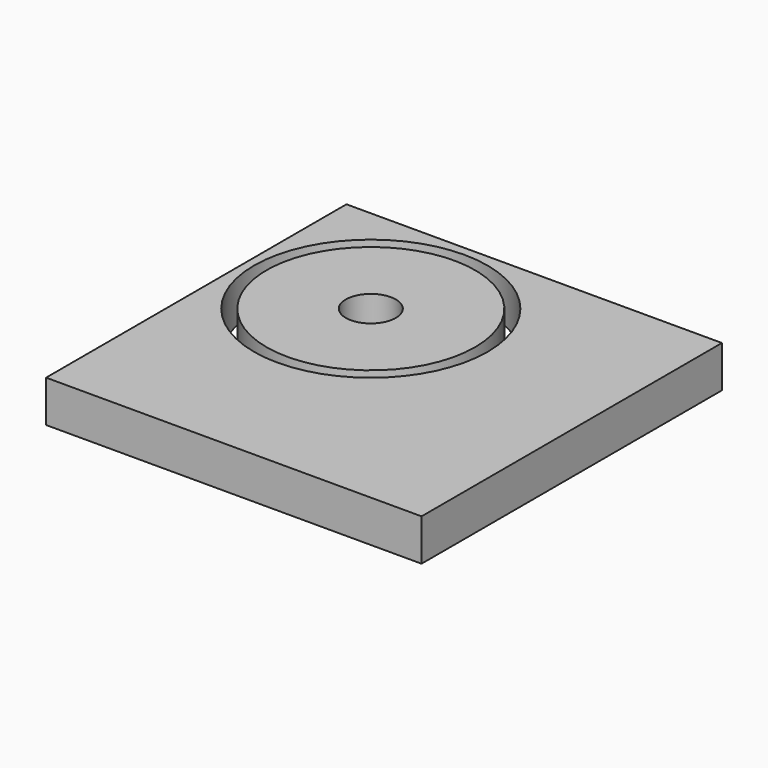
from build123d import *

# Parameters (mm, degrees)
F0_W     = 90
F0_H     = 90
F1_DEPTH = 10
F3_D     = 12
F4_R     = 28
F4_R_2   = 25
F5_DEPTH = 10.001


with BuildPart() as f1:
    # F0 (on Top) → F1 (new body)
    with BuildSketch(Plane.XY):
        Rectangle(F0_W, F0_H)
    extrude(amount=F1_DEPTH)

    # F3 (through all)
    with Locations(Plane.XY.offset(10)):
        with Locations((-15, 14.800516)):
            Hole(F3_D / 2)

    # F4 (on face) → F5 (cut, through all)
    with BuildSketch(Plane.XY.offset(10)):
        with Locations((-15, 14.800516)):
            Circle(F4_R)
        with Locations((-15, 14.800516)):
            Circle(F4_R_2, mode=Mode.SUBTRACT)
        with Locations((-15, 14.800516)):
            Circle(F4_R)
        with Locations((-15, 14.800516)):
            Circle(F4_R_2, mode=Mode.SUBTRACT)
    extrude(amount=-F5_DEPTH, mode=Mode.SUBTRACT)


solid = f1.part
